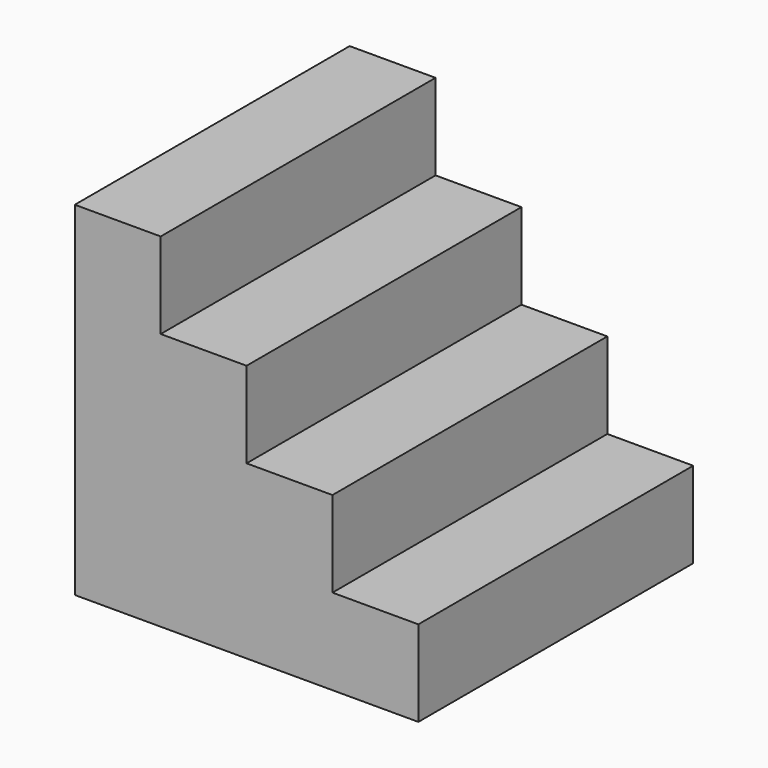
from build123d import *

# Parameters (mm, degrees)
F0_W     = 30
F0_H     = 30
F1_DEPTH = 60


with BuildPart() as f1:
    # F0 (on Front) → F1 (new body, symmetric)
    with BuildSketch(Plane.XZ):
        Polygon((-69.367613, -14.329026), (-69.367613, -44.329026), (20.632387, -44.329026), (20.632387, -14.329026), (-9.367613, -14.329026), align=None)
        Polygon((20.632387, -44.329026), (-69.367613, -44.329026), (-69.367613, -74.329026), (50.632387, -74.329026), (50.632387, -44.329026), align=None)
        Polygon((-69.367613, 15.670974), (-69.367613, -14.329026), (-9.367613, -14.329026), (-9.367613, 15.670974), (-39.367613, 15.670974), align=None)
        with Locations((-54.367613, 30.670974)):
            Rectangle(F0_W, F0_H)
    extrude(amount=F1_DEPTH, both=True)


solid = f1.part
